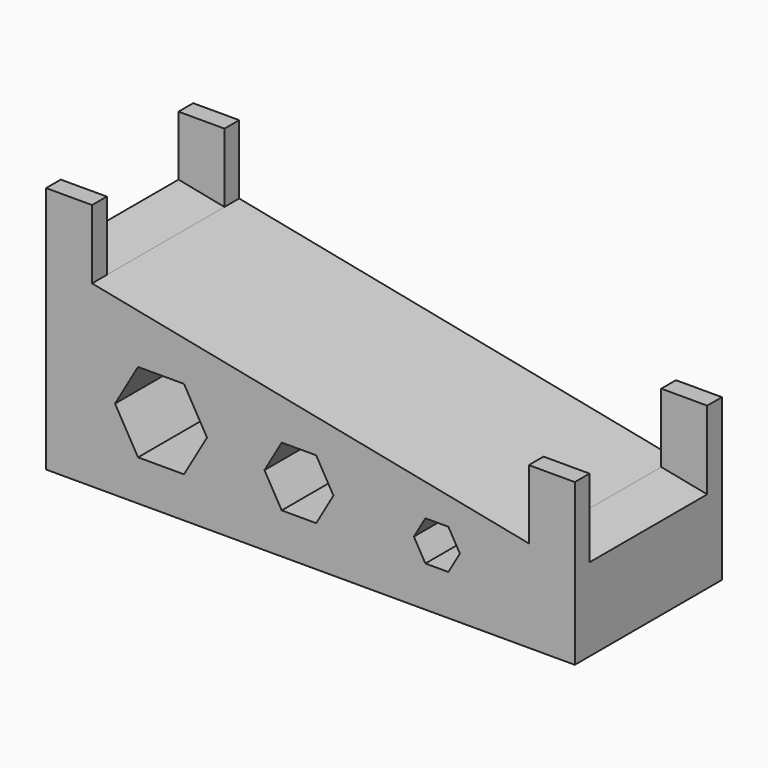
from build123d import *

# Parameters (mm, degrees)
PAD_DEPTH    = 40
SKETCH001_W  = 142.064534
SKETCH001_H  = 32
POCKET_DEPTH = 35.197263


with BuildPart() as part:
    # Sketch → Pad (new body)
    with BuildSketch(Plane.XZ):
        Polygon((0, 0), (0, 53.896675), (10, 53.896675), (10, 38.896675), (105, 20), (105, 35), (115, 35), (115, 0), align=None)
        Polygon((30, 8.839746), (35, 17.5), (30, 26.160254), (20, 26.160254), (15, 17.5), (20, 8.839746), align=None, mode=Mode.SUBTRACT)
        Polygon((58.75, 8.839746), (62.5, 15.334936), (58.75, 21.830127), (51.25, 21.830127), (47.5, 15.334936), (51.25, 8.839746), align=None, mode=Mode.SUBTRACT)
        Polygon((87.5, 8.839746), (90, 13.169873), (87.5, 17.5), (82.5, 17.5), (80, 13.169873), (82.5, 8.839746), align=None, mode=Mode.SUBTRACT)
    extrude(amount=PAD_DEPTH)

    # Sketch001 (on Face4 of Pad) → Pocket (cut, through all)
    with BuildSketch(Plane(origin=(7.823159, 0, 39.329676), x_dir=(-0.980785, 0, 0.19509), z_dir=(0.19509, 0, 0.980785))):
        with Locations((-56.611011, 20)):
            Rectangle(SKETCH001_W, SKETCH001_H)
    extrude(amount=POCKET_DEPTH, mode=Mode.SUBTRACT)


solid = part.part
